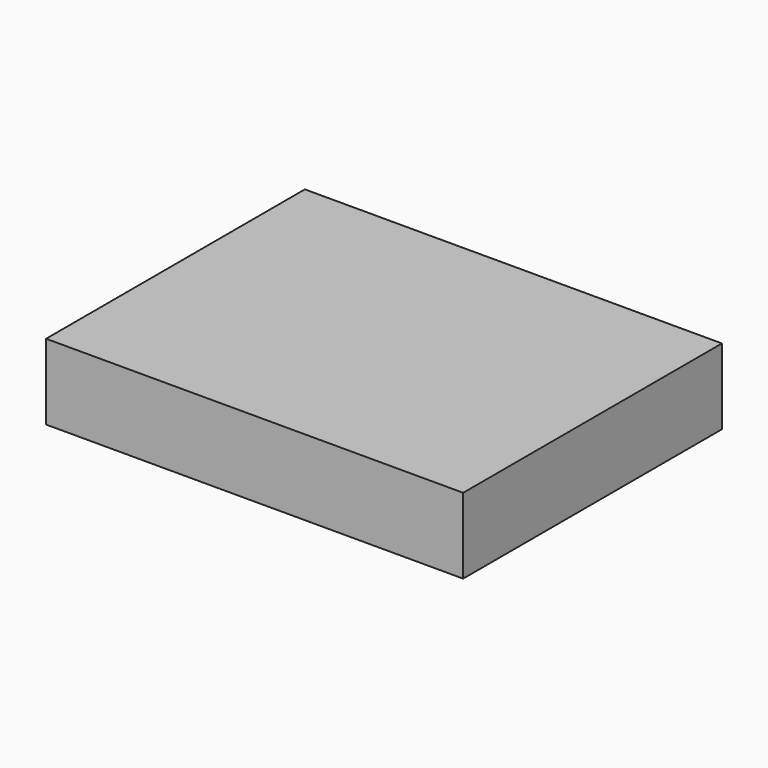
from build123d import *

# Parameters (mm, degrees)
BOX_W     = 45.85
BOX_H     = 35.56
BOX_DEPTH = 8.31


with BuildPart() as part:
    # Box → Box (new body)
    with BuildSketch(Plane.XY):
        with Locations((22.925, 17.78)):
            Rectangle(BOX_W, BOX_H)
    extrude(amount=BOX_DEPTH)


solid = part.part
